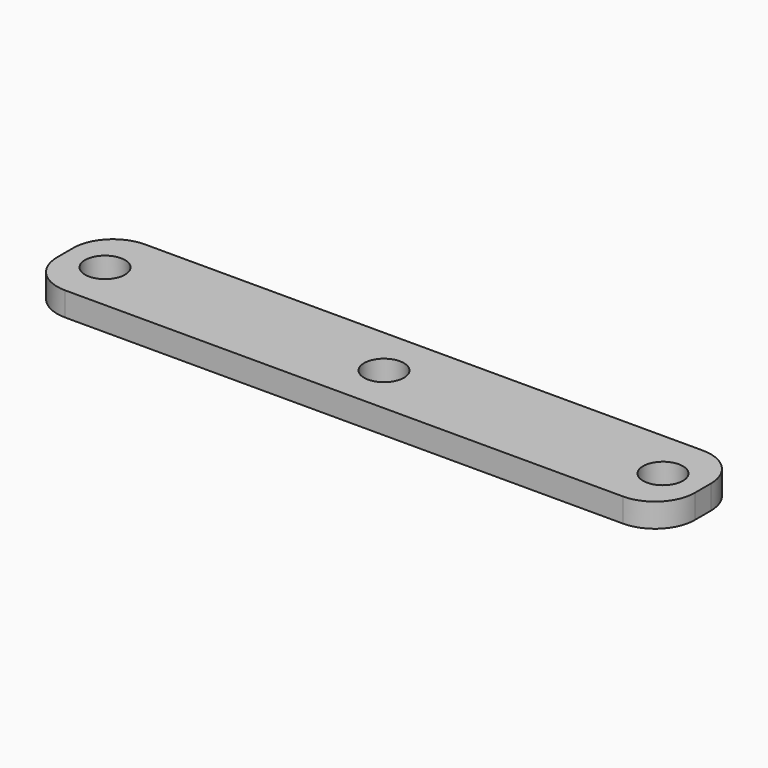
from build123d import *

# Parameters (mm, degrees)
F0_W     = 80
F0_H     = 12.5
F1_DEPTH = 3
F2_R     = 5
F4_D     = 5


with BuildPart() as f1:
    # F0 (on Top) → F1 (new body)
    with BuildSketch(Plane.XY):
        Rectangle(F0_W, F0_H)
    extrude(amount=F1_DEPTH)

    # F2
    f2_edges = [f1.edges().sort_by_distance(p)[0] for p in [
        (40, -6.25, 1.5),
        (40, 6.25, 1.5),
        (-40, -6.25, 1.5),
        (-40, 6.25, 1.5),
    ]]
    fillet(f2_edges, radius=F2_R)

    # F4 (through all)
    with Locations(Plane(origin=(0, 0, 0), x_dir=(1, 0, 0), z_dir=(0, 0, -1))):
        with Locations((-35, 0), (0, 0), (35, 0)):
            Hole(F4_D / 2)


solid = f1.part
